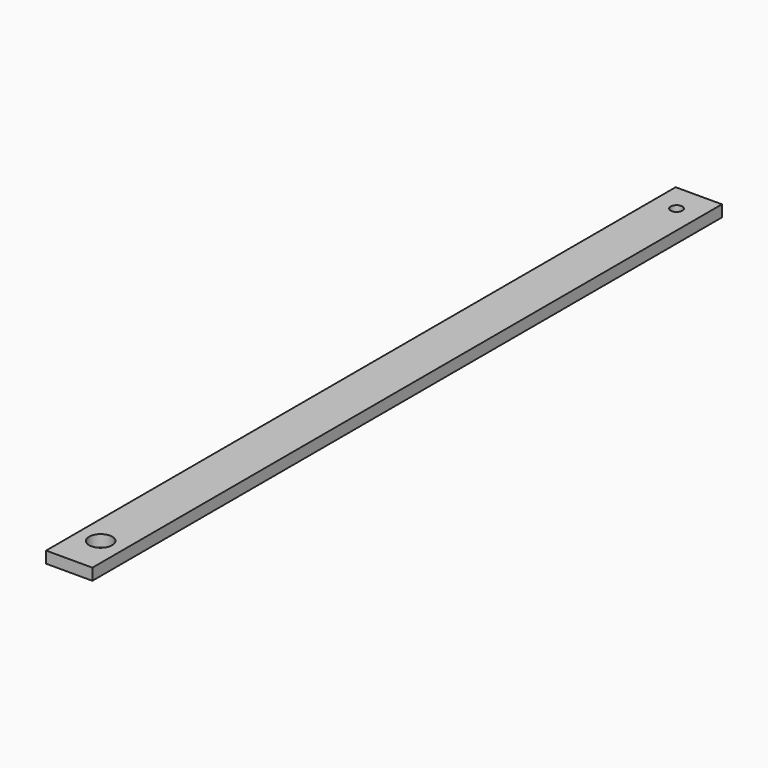
from build123d import *

# Parameters (mm, degrees)
F0_W     = 12.7
F0_H     = 215.9
F0_R     = 3.175
F0_R_2   = 1.5875
F1_DEPTH = 3.175


with BuildPart() as f1:
    # F0 (on Top) → F1 (new body)
    with BuildSketch(Plane.XY):
        Rectangle(F0_W, F0_H)
        with Locations((0, -97.155)):
            Circle(F0_R, mode=Mode.SUBTRACT)
        with Locations((0, 100.33)):
            Circle(F0_R_2, mode=Mode.SUBTRACT)
    extrude(amount=F1_DEPTH)


solid = f1.part
